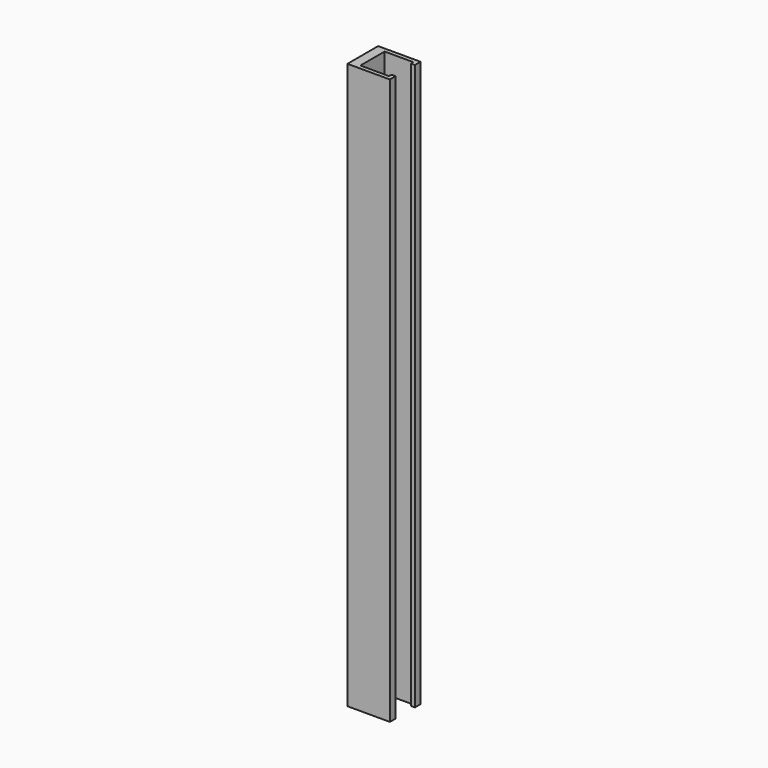
from build123d import *

# Parameters (mm, degrees)
F0_W     = 21
F0_H     = 280
F1_DEPTH = 19
F3_DEPTH = 280.001
F4_R     = 2
F5_DEPTH = 4.8


with BuildPart() as f1:
    # F0 (on Front) → F1 (new body)
    with BuildSketch(Plane.XZ):
        with Locations((10.5, 140)):
            Rectangle(F0_W, F0_H)
    extrude(amount=F1_DEPTH)

    # F2 (on face) → F3 (cut, through all)
    with BuildSketch(Plane(origin=(0, 0, 0), x_dir=(1, 0, 0), z_dir=(0, 0, -1))):
        Polygon((19, 17), (4.8, 17), (4.8, 2), (19, 2), (19, 3.5), (21, 3.5), (21, 15.5), (19, 15.5), align=None)
    extrude(amount=-F3_DEPTH, mode=Mode.SUBTRACT)

    # F4 (on face) → F5 (cut, through all)
    with BuildSketch(Plane(origin=(0, 0, 0), x_dir=(0, -1, 0), z_dir=(-1, 0, 0))):
        with Locations((9.5, 30)):
            Circle(F4_R)
        with Locations((9.5, 140)):
            Circle(F4_R)
        with Locations((9.5, 250)):
            Circle(F4_R)
    extrude(amount=-F5_DEPTH, mode=Mode.SUBTRACT)


solid = f1.part
